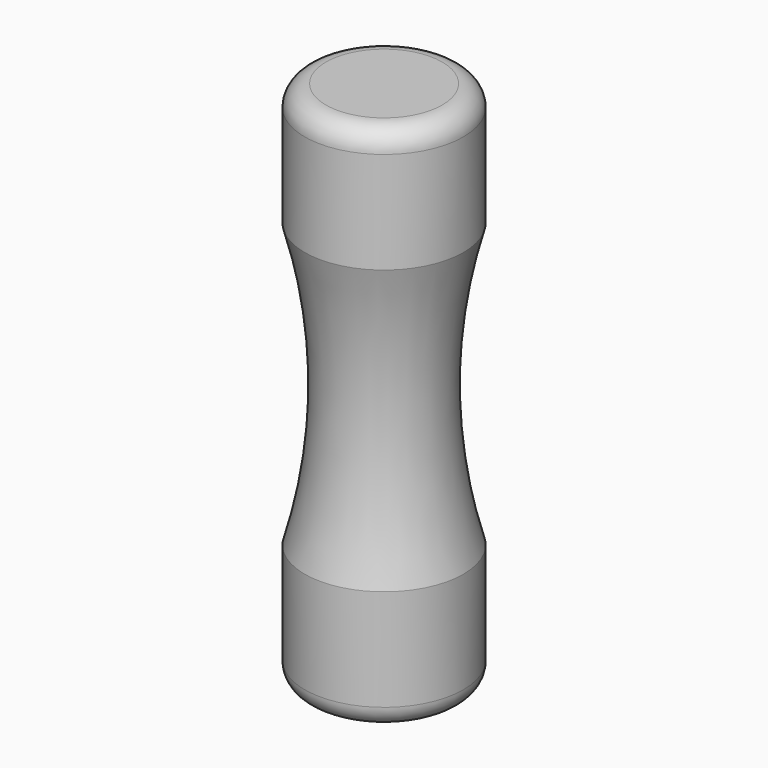
from build123d import *

# Parameters (mm, degrees)
F0_R     = 7.5
F1_DEPTH = 50
F3_DEPTH = 25
F6_R     = 2


with BuildPart() as f1:
    # F0 (on Top) → F1 (new body)
    with BuildSketch(Plane.XY):
        Circle(F0_R)
    extrude(amount=F1_DEPTH)

    # F2 (on Top) → F3 (cut)
    with BuildSketch(Plane.XY):
        with BuildLine():
            Line((3.2, -3.2), (3.2, 3.2))
            Line((3.2, 3.2), (-3.2, 3.2))
            Line((-3.2, 3.2), (-3.2, -3.2))
            Line((-3.2, -3.2), (-1, -3.2))
            Line((-1, -3.2), (-1, -1.7))
            ThreePointArc((-1, -1.7), (0, -0.7), (1, -1.7))
            Line((1, -1.7), (1, -3.2))
            Line((1, -3.2), (3.2, -3.2))
        make_face()
    extrude(amount=F3_DEPTH, mode=Mode.SUBTRACT)

    # F4 (on Front) → F5 (revolve, cut)
    with BuildSketch(Plane.XZ):
        with BuildLine():
            ThreePointArc((-8, 10), (-5.596052, 25), (-8, 40))
            Line((-8, 40), (-13, 40))
            Line((-13, 40), (-13, 10))
            Line((-13, 10), (-8, 10))
        make_face()
    revolve(axis=Axis((0, 0, 50), (0, 0, 1)), mode=Mode.SUBTRACT)

    # F6
    f6_edges = [f1.edges().sort_by_distance(p)[0] for p in [
        (-7.5, 0, 50),
        (-7.5, 0, 0),
    ]]
    fillet(f6_edges, radius=F6_R)


solid = f1.part
